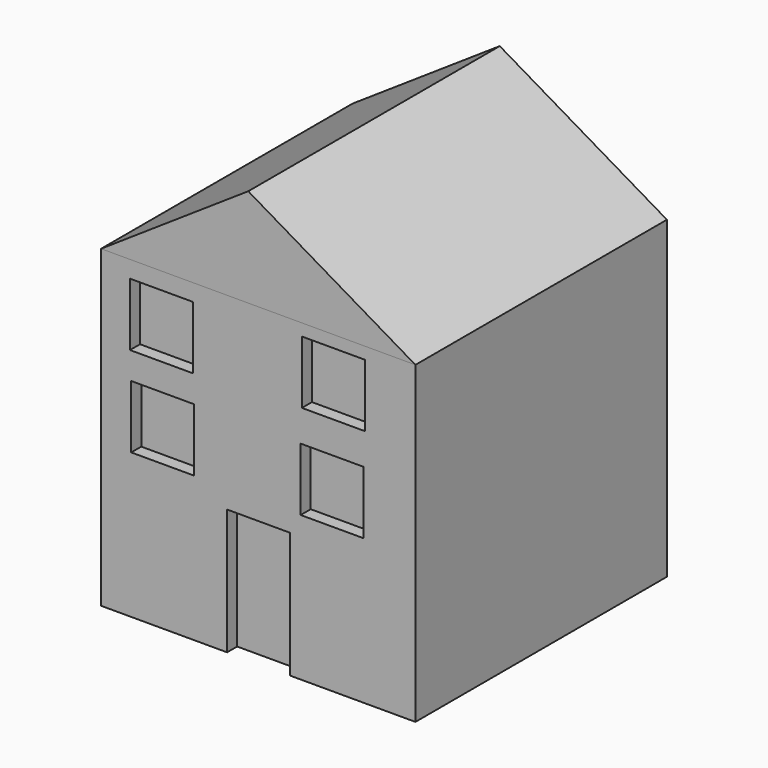
from build123d import *

# Parameters (mm, degrees)
F0_W     = 127
F0_H     = 127
F1_DEPTH = 127
F2_W     = 25.4
F2_H     = 25.4
F2_H_2   = 50.8
F3_DEPTH = 5.08
F5_DEPTH = 127


with BuildPart() as f1:
    # F0 (on Front) → F1 (new body)
    with BuildSketch(Plane.XZ):
        with Locations((12.588286, 26.574241)):
            Rectangle(F0_W, F0_H)
    extrude(amount=F1_DEPTH)

    # F2 (on face) → F3 (cut)
    with BuildSketch(Plane.XZ.offset(127)):
        with Locations((-26.548444, 70.532424)):
            Rectangle(F2_W, F2_H)
        with Locations((-26.045046, 34.287646)):
            Rectangle(F2_W, F2_H)
        with Locations((12.7, -11.525759)):
            Rectangle(F2_W, F2_H_2)
        with Locations((42.417306, 34.287646)):
            Rectangle(F2_W, F2_H)
        with Locations((42.920702, 72.546018)):
            Rectangle(F2_W, F2_H)
    extrude(amount=-F3_DEPTH, mode=Mode.SUBTRACT)


with BuildPart() as f5:
    # F4 (on face) → F5 (new body)
    with BuildSketch(Plane.XZ.offset(127)):
        Polygon((8.551238, 129.861295), (-50.911714, 90.074241), (76.088286, 90.074241), align=None)
    extrude(amount=-F5_DEPTH)


solid = Compound([f1.part, f5.part])
